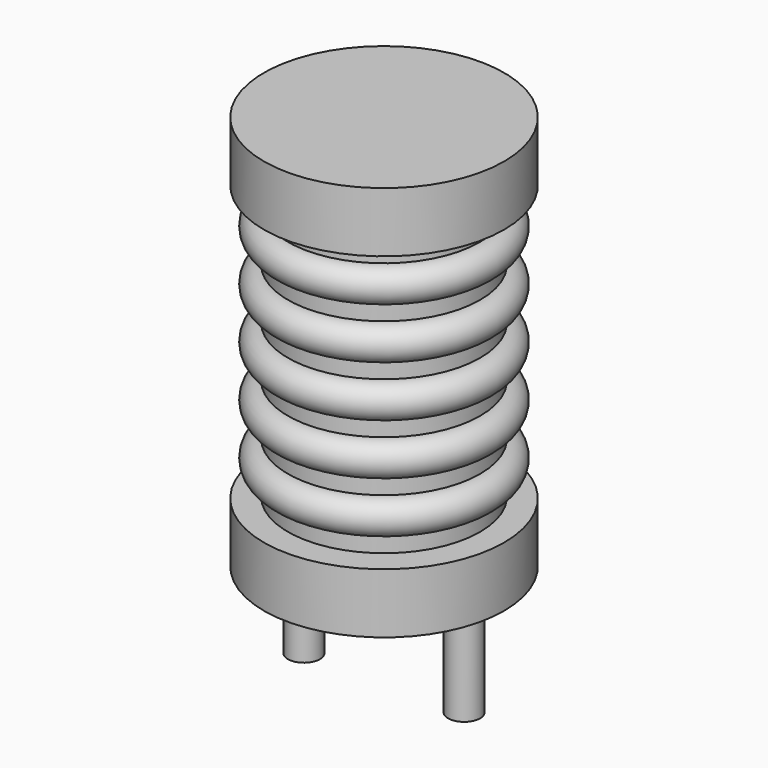
from build123d import *

# Parameters (mm, degrees)
SKETCH001_R  = 0.5
PAD001_DEPTH = 3.5


with BuildPart() as revolution:
    # Sketch → Revolution (revolve)
    with BuildSketch(Plane(origin=(2.5, 0, 0), x_dir=(1, 0, 0), z_dir=(0, -1, 0))):
        Polygon((0, 0.05), (1.5, 0.05), (1.5, 0.2), (3.75, 0.2), (3.75, 2.075), (0.75, 2.075), (0.75, 10.675), (3.75, 10.675), (3.75, 12.55), (0, 12.55), align=None)
    revolve(axis=Axis((2.5, 0, 0), (0, 0, 1)))


with BuildPart() as pad001:
    # Sketch001 → Pad001 (new body)
    with BuildSketch(Plane.XY.offset(0.5)):
        Circle(SKETCH001_R)
        with Locations((5, 0)):
            Circle(SKETCH001_R)
    extrude(amount=-PAD001_DEPTH)


with BuildPart() as obj1:
    # Sketch002 → Revolution001 (revolve)
    with BuildSketch(Plane(origin=(2.5, 0, 0), x_dir=(1, 0, 0), z_dir=(0, -1, 0))):
        with BuildLine():
            Line((3, 2.125), (0.75, 2.125))
            Line((0.75, 2.125), (0.75, 10.625))
            Line((0.75, 10.625), (3, 10.625))
            Line((3, 10.625), (3, 10.09375))
            ThreePointArc((3, 9.03125), (3.53125, 9.5625), (3, 10.09375))
            Line((3, 9.03125), (3, 8.5))
            ThreePointArc((3, 7.4375), (3.53125, 7.96875), (3, 8.5))
            Line((3, 7.4375), (3, 6.90625))
            ThreePointArc((3, 5.84375), (3.53125, 6.375), (3, 6.90625))
            Line((3, 5.84375), (3, 5.3125))
            ThreePointArc((3, 4.25), (3.53125, 4.78125), (3, 5.3125))
            Line((3, 4.25), (3, 3.71875))
            ThreePointArc((3, 2.65625), (3.53125, 3.1875), (3, 3.71875))
            Line((3, 2.125), (3, 2.65625))
        make_face()
    revolve(axis=Axis((2.5, 0, 0), (0, 0, 1)))

    add(revolution.part)
    add(pad001.part)


solid = obj1.part
